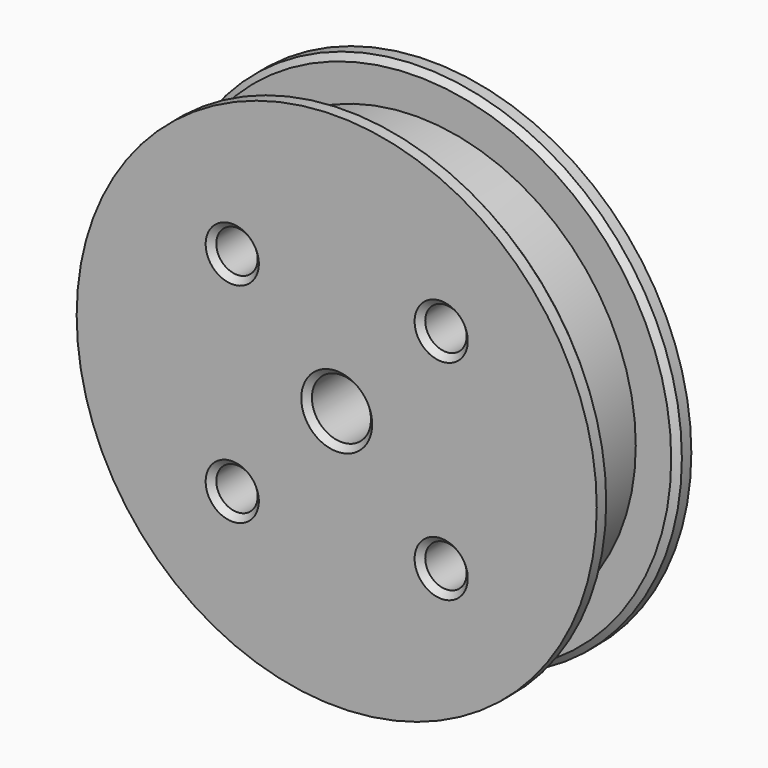
from build123d import *

# Parameters (mm, degrees)
F0_R      = 22
F1_DEPTH  = 5
F2_R      = 30.4296764291
F2_R_2    = 18.5
F3_DEPTH  = 3.5
F4_R      = 8
F5_DEPTH  = 6
F6_R      = 2.5
F7_DEPTH  = 16.001
F8_SIZE   = 0.5
F9_R      = 1.75
F10_DEPTH = 10.001
F11_SIZE  = 0.5


with BuildPart() as f1:
    # F0 (on Front) → F1 (new body, symmetric)
    with BuildSketch(Plane.XZ):
        Circle(F0_R)
    extrude(amount=F1_DEPTH, both=True)

    # F2 (on Front) → F3 (cut, symmetric)
    with BuildSketch(Plane.XZ):
        Circle(F2_R)
        Circle(F2_R_2, mode=Mode.SUBTRACT)
    extrude(amount=F3_DEPTH, both=True, mode=Mode.SUBTRACT)

    # F4 (on face) → F5 (join)
    with BuildSketch(Plane(origin=(0, 5, 0), x_dir=(-1, 0, 0), z_dir=(0, 1, 0))):
        Circle(F4_R)
    extrude(amount=F5_DEPTH)

    # F6 (on face) → F7 (cut, through all)
    with BuildSketch(Plane(origin=(0, 11, 0), x_dir=(-1, 0, 0), z_dir=(0, 1, 0))):
        Circle(F6_R)
    extrude(amount=-F7_DEPTH, mode=Mode.SUBTRACT)

    # F8
    f8_edges = [f1.edges().sort_by_distance(p)[0] for p in [
        (8, 11, 0),
        (2.5, 11, 0),
        (8, 5, 0),
        (-22, 3.5, 0),
        (-22, -3.5, 0),
        (2.5, -5, 0),
    ]]
    chamfer(f8_edges, length=F8_SIZE)

    # F9 (on face) → F10 (cut, through all)
    with BuildSketch(Plane(origin=(0, 5, 0), x_dir=(-1, 0, 0), z_dir=(0, 1, 0))):
        with Locations((-8.8388347648, 8.8388347648)):
            Circle(F9_R)
        with Locations((-8.8388347648, -8.8388347648)):
            Circle(F9_R)
        with Locations((8.8388347648, -8.8388347648)):
            Circle(F9_R)
        with Locations((8.8388347648, 8.8388347648)):
            Circle(F9_R)
    extrude(amount=-F10_DEPTH, mode=Mode.SUBTRACT)

    # F11
    f11_edges = [f1.edges().sort_by_distance(p)[0] for p in [
        (-7.088835, -5, 8.838835),
        (-7.088835, -5, -8.838835),
        (10.588835, -5, -8.838835),
        (10.588835, -5, 8.838835),
        (10.588835, 5, 8.838835),
        (-7.088835, 5, 8.838835),
        (-7.088835, 5, -8.838835),
        (10.588835, 5, -8.838835),
    ]]
    chamfer(f11_edges, length=F11_SIZE)


solid = f1.part
